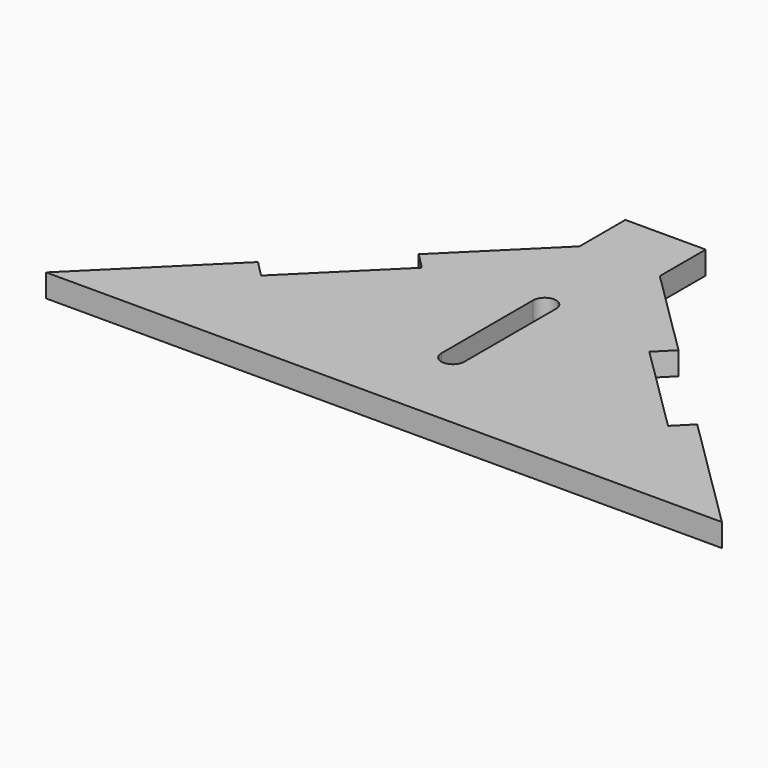
from build123d import *

# Parameters (mm, degrees)
F1_DEPTH = 4


with BuildPart() as f1:
    # F0 (on Top) → F1 (new body)
    with BuildSketch(Plane.XY):
        Polygon((-24.640209, 27.888809), (-21.827112, 25.045134), (-37.467321, 9.5731), (-40.280418, 12.416774), (-60.897057, -7.978181), (56.897057, -7.978181), (36.280418, 12.416774), (33.467321, 9.5731), (17.827112, 25.045134), (20.640209, 27.888809), (5, 43.360843), (5, 53.360843), (-9, 53.360843), (-9, 43.360843), align=None)
        with BuildLine():
            Line((0, 27.021819), (0, 7.021819))
            ThreePointArc((0, 7.021819), (-2, 5.021819), (-4, 7.021819))
            Line((-4, 7.021819), (-4, 27.021819))
            ThreePointArc((-4, 27.021819), (-2, 29.021819), (0, 27.021819))
        make_face(mode=Mode.SUBTRACT)
    extrude(amount=F1_DEPTH)


solid = f1.part
